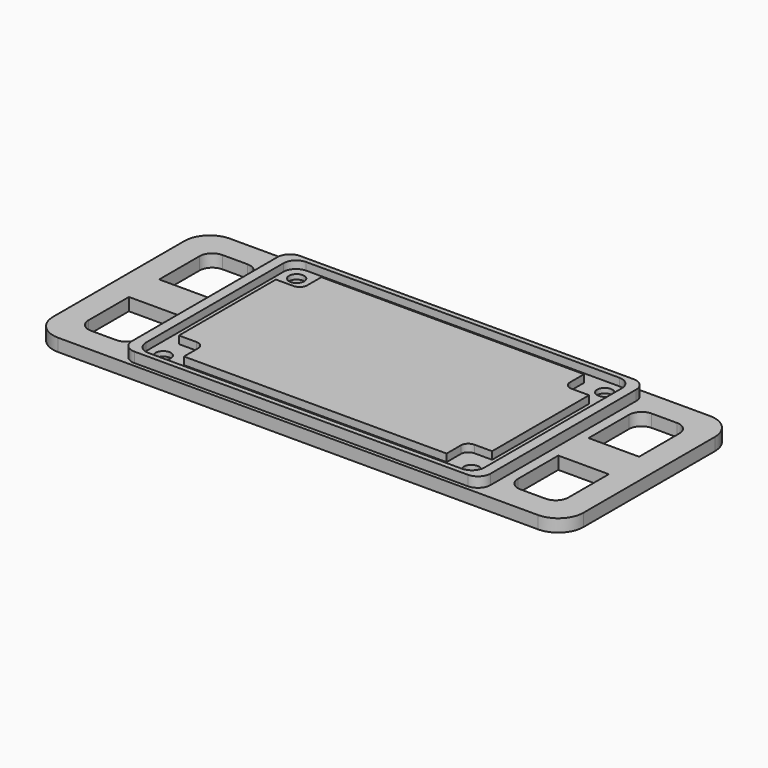
from build123d import *

# Parameters (mm, degrees)
F0_W      = 210
F0_H      = 85
F1_DEPTH  = 5
F2_R      = 10
F4_DEPTH  = 4
F6_DEPTH  = 3
F8_DEPTH  = 3
F9_R      = 3
F10_DEPTH = 25
F11_R     = 8
F12_DEPTH = 4.1
F14_DEPTH = 25


with BuildPart() as f1:
    # F0 (on Top) → F1 (new body)
    with BuildSketch(Plane.XY):
        Rectangle(F0_W, F0_H)
    extrude(amount=F1_DEPTH)

    # F2
    f2_edges = [f1.edges().sort_by_distance(p)[0] for p in [
        (-105, -42.5, 2.5),
        (-105, 42.5, 2.5),
        (105, 42.5, 2.5),
        (105, -42.5, 2.5),
    ]]
    fillet(f2_edges, radius=F2_R)

    # F3 (on face) → F4 (join)
    with BuildSketch(Plane.XY.offset(5)):
        with BuildLine():
            Line((66, 41), (-66, 41))
            ThreePointArc((-66, 41), (-69.535534, 39.535534), (-71, 36))
            Line((-71, 36), (-71, -36))
            ThreePointArc((-71, -36), (-69.535534, -39.535534), (-66, -41))
            Line((-66, -41), (66, -41))
            ThreePointArc((66, -41), (69.535534, -39.535534), (71, -36))
            Line((71, -36), (71, 36))
            ThreePointArc((71, 36), (69.535534, 39.535534), (66, 41))
        make_face()
    extrude(amount=F4_DEPTH)

    # F5 (on face) → F6 (cut)
    with BuildSketch(Plane.XY.offset(9)):
        with BuildLine():
            Line((62, 39), (-62, 39))
            ThreePointArc((-62, 39), (-65.535534, 37.535534), (-67, 34))
            Line((-67, 34), (-67, -34))
            ThreePointArc((-67, -34), (-65.535534, -37.535534), (-62, -39))
            Line((-62, -39), (62, -39))
            ThreePointArc((62, -39), (65.535534, -37.535534), (67, -34))
            Line((67, -34), (67, 34))
            ThreePointArc((67, 34), (65.535534, 37.535534), (62, 39))
        make_face()
    extrude(amount=-F6_DEPTH, mode=Mode.SUBTRACT)

    # F7 (on face) → F8 (join)
    with BuildSketch(Plane.XY.offset(6)):
        with BuildLine():
            Line((52, 34), (-52, 34))
            Line((-52, 34), (-52, 27))
            ThreePointArc((-52, 27), (-52.87868, 24.87868), (-55, 24))
            Line((-55, 24), (-62, 24))
            Line((-62, 24), (-62, -24))
            Line((-62, -24), (-55, -24))
            ThreePointArc((-55, -24), (-52.87868, -24.87868), (-52, -27))
            Line((-52, -27), (-52, -34))
            Line((-52, -34), (52, -34))
            Line((52, -34), (52, -27))
            ThreePointArc((52, -27), (52.87868, -24.87868), (55, -24))
            Line((55, -24), (62, -24))
            Line((62, -24), (62, 24))
            Line((62, 24), (55, 24))
            ThreePointArc((55, 24), (52.87868, 24.87868), (52, 27))
            Line((52, 27), (52, 34))
        make_face()
    extrude(amount=F8_DEPTH)

    # F9 (on face) → F10 (cut)
    with BuildSketch(Plane.XY.offset(6)):
        with Locations((-61, -33)):
            Circle(F9_R)
        with Locations((-61, 33)):
            Circle(F9_R)
        with Locations((61, -33)):
            Circle(F9_R)
        with Locations((61, 33)):
            Circle(F9_R)
    extrude(amount=-F10_DEPTH, mode=Mode.SUBTRACT)

    # F11 (on face) → F12 (cut)
    with BuildSketch(Plane(origin=(0, 0, 0), x_dir=(1, 0, 0), z_dir=(0, 0, -1))):
        with Locations((-61, 33)):
            Circle(F11_R)
        with Locations((-61, -33)):
            Circle(F11_R)
        with Locations((61, -33)):
            Circle(F11_R)
        with Locations((61, 33)):
            Circle(F11_R)
    extrude(amount=-F12_DEPTH, mode=Mode.SUBTRACT)

    # F13 (on face) → F14 (cut)
    with BuildSketch(Plane.XY.offset(5)):
        with BuildLine():
            Line((-80, 32.5), (-90, 32.5))
            ThreePointArc((-90, 32.5), (-93.535534, 31.035534), (-95, 27.5))
            Line((-95, 27.5), (-95, 7.5))
            Line((-95, 7.5), (-75, 7.5))
            Line((-75, 7.5), (-75, 27.5))
            ThreePointArc((-75, 27.5), (-76.464466, 31.035534), (-80, 32.5))
        make_face()
        with BuildLine():
            ThreePointArc((-80, -32.5), (-76.464466, -31.035534), (-75, -27.5))
            Line((-75, -27.5), (-75, -7.5))
            Line((-75, -7.5), (-95, -7.5))
            Line((-95, -7.5), (-95, -27.5))
            ThreePointArc((-95, -27.5), (-93.535534, -31.035534), (-90, -32.5))
            Line((-90, -32.5), (-80, -32.5))
        make_face()
        with BuildLine():
            ThreePointArc((80, 32.5), (76.464466, 31.035534), (75, 27.5))
            Line((75, 27.5), (75, 7.5))
            Line((75, 7.5), (95, 7.5))
            Line((95, 7.5), (95, 27.5))
            ThreePointArc((95, 27.5), (93.535534, 31.035534), (90, 32.5))
            Line((90, 32.5), (80, 32.5))
        make_face()
        with BuildLine():
            Line((75, -7.5), (75, -27.5))
            ThreePointArc((75, -27.5), (76.464466, -31.035534), (80, -32.5))
            Line((80, -32.5), (90, -32.5))
            ThreePointArc((90, -32.5), (93.535534, -31.035534), (95, -27.5))
            Line((95, -27.5), (95, -7.5))
            Line((95, -7.5), (75, -7.5))
        make_face()
    extrude(amount=-F14_DEPTH, mode=Mode.SUBTRACT)


solid = f1.part
